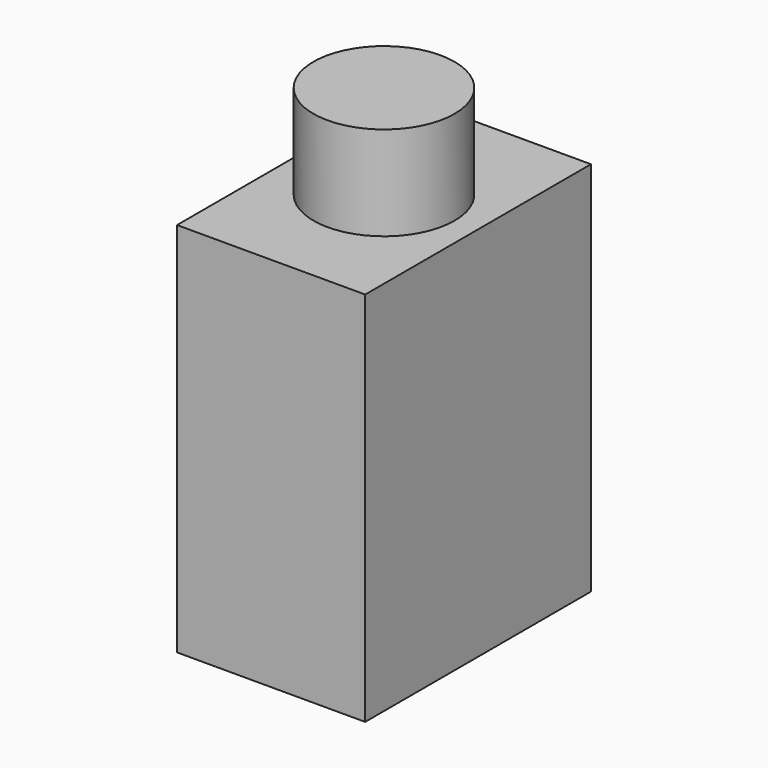
from build123d import *

# Parameters (mm, degrees)
F0_W     = 50.8
F0_H     = 101.6
F1_DEPTH = 38.1
F2_R     = 19.05
F3_DEPTH = 25.4


with BuildPart() as f1:
    # F0 (on Front) → F1 (new body, symmetric)
    with BuildSketch(Plane.XZ):
        with Locations((0, -25.4)):
            Rectangle(F0_W, F0_H)
    extrude(amount=F1_DEPTH, both=True)

    # F2 (on face) → F3 (join)
    with BuildSketch(Plane.XY.offset(25.4)):
        Circle(F2_R)
        Circle(F2_R)
    extrude(amount=F3_DEPTH)


solid = f1.part
